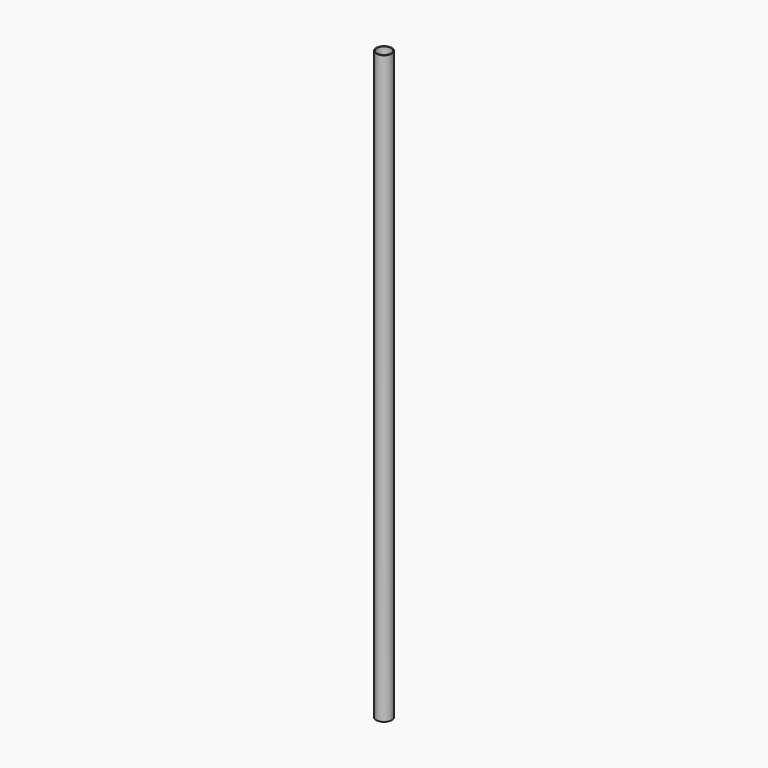
from build123d import *

# Parameters (mm, degrees)
SKETCH_R   = 13.45
SKETCH_R_2 = 12.15
PAD_DEPTH  = 1000


with BuildPart() as part:
    # Sketch → Pad (new body)
    with BuildSketch(Plane.XY):
        Circle(SKETCH_R)
        Circle(SKETCH_R_2, mode=Mode.SUBTRACT)
    extrude(amount=PAD_DEPTH)


solid = part.part
